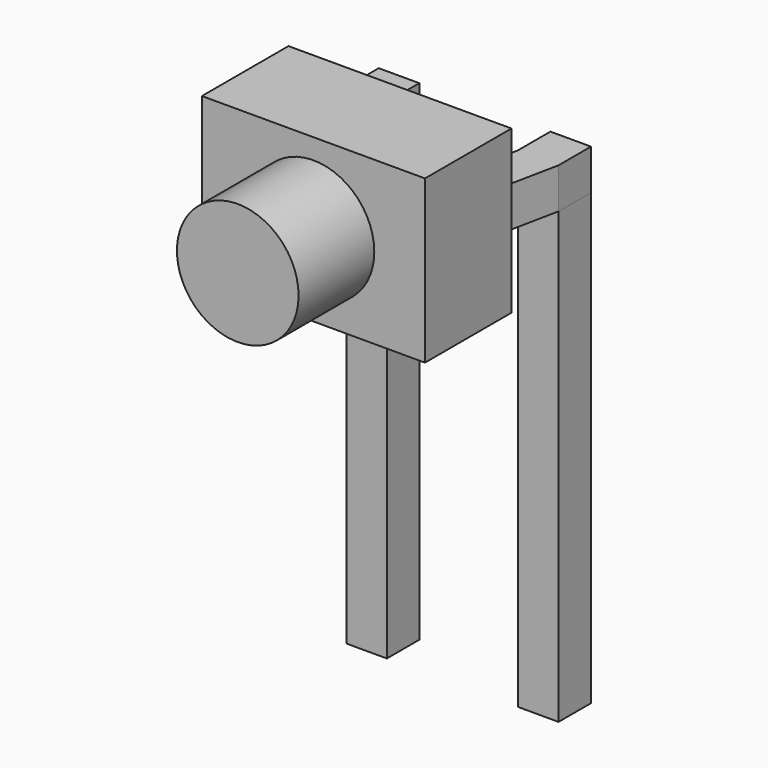
from build123d import *

# Parameters (mm, degrees)
SKETCH_W       = 0.6
SKETCH_H       = 0.6
PAD_DEPTH      = 4.65
PAD_DEPTH_BACK = 2
PAD001_DEPTH   = 0.6
SKETCH002_W    = 2.54
SKETCH002_H    = 0.6
PAD002_DEPTH   = 1
SKETCH004_W    = 3.3
SKETCH004_H    = 2.4
PAD003_DEPTH   = 1.6
SKETCH006_R    = 0.9
PAD004_DEPTH   = 1.4


with BuildPart() as pad:
    # Sketch → Pad (new body, two sides)
    with BuildSketch(Plane.XY) as pad_sk:
        Rectangle(SKETCH_W, SKETCH_H)
        with Locations((2.54, 0)):
            Rectangle(SKETCH_W, SKETCH_H)
    extrude(amount=PAD_DEPTH)
    extrude(pad_sk.sketch, amount=-PAD_DEPTH_BACK)


with BuildPart() as pad001:
    # Sketch001 → Pad001 (new body)
    with BuildSketch(Plane.XY.offset(4.65)):
        Polygon((0.3, 0.3), (-0.3, 0.3), (-0.3, -0.3), (0, -1.77), (0.6, -1.77), (0.3, -0.3), align=None)
        Polygon((2.84, 0.3), (2.24, 0.3), (2.24, -0.3), (1.94, -1.77), (2.54, -1.77), (2.84, -0.3), align=None)
    extrude(amount=PAD001_DEPTH)


with BuildPart() as pad002:
    # Sketch002 → Pad002 (new body)
    with BuildSketch(Plane.XZ.offset(1.77)):
        with Locations((1.27, 4.95)):
            Rectangle(SKETCH002_W, SKETCH002_H)
    extrude(amount=PAD002_DEPTH)


with BuildPart() as revolution001:
    # Sketch005 → Revolution001 (revolve)
    with BuildSketch(Plane.YZ.offset(1.27)):
        Polygon((-2.47, 4.95), (-2.97, 4.95), (-2.97, 5.45), align=None)
    revolve(axis=Axis((1.27, -3.977201, 4.95), (0, -1, 0)))


with BuildPart() as pad004:
    # Sketch004 → Pad003 (new body)
    with BuildSketch(Plane.XZ.offset(1.27)):
        with Locations((1.27, 4.95)):
            Rectangle(SKETCH004_W, SKETCH004_H)
    extrude(amount=PAD003_DEPTH)

    # Sketch006 → Pad004 (new body)
    with BuildSketch(Plane.XZ.offset(2.87)):
        with Locations((1.27, 4.95)):
            Circle(SKETCH006_R)
    extrude(amount=PAD004_DEPTH)


solid = Compound([pad.part, pad001.part, pad002.part, revolution001.part, pad004.part])
